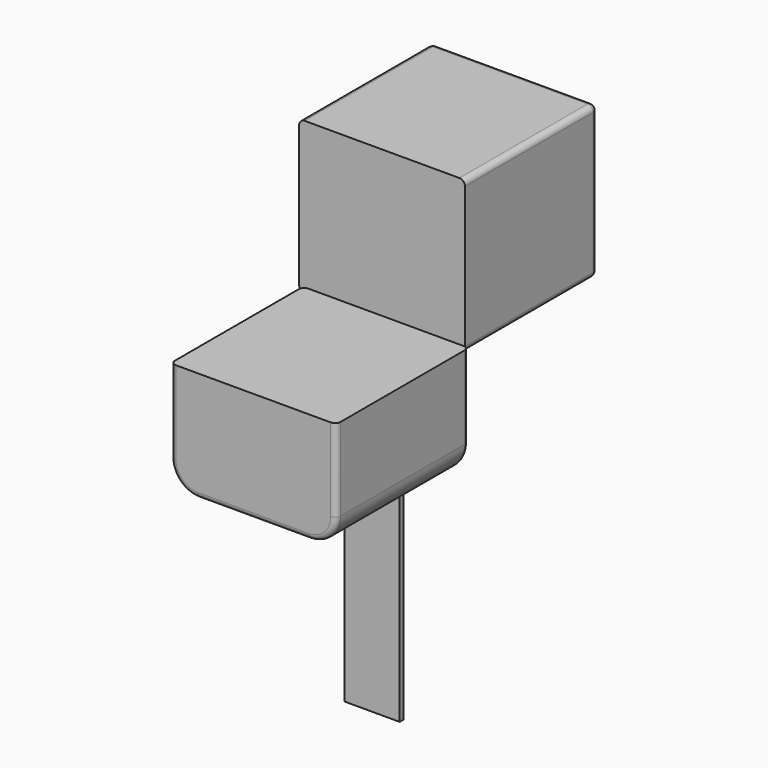
from build123d import *

# Parameters (mm, degrees)
F1_DEPTH = 152.4
F2_R     = 5.08
F3_W     = 152.4
F3_H     = 139.7
F4_DEPTH = 152.4
F5_R     = 5.08
F6_W     = 50.8
F6_H     = 4.4845114427
F7_DEPTH = 304.8


with BuildPart() as f1:
    # F0 (on Front) → F1 (new body)
    with BuildSketch(Plane.XZ):
        with BuildLine():
            Line((93.791274333, 18.625925827), (-58.608725667, 18.625925827))
            Line((-58.608725667, 18.625925827), (-58.608725667, -57.574074173))
            ThreePointArc((-58.608725667, -57.574074173), (-51.1692379091, -75.5345864151), (-33.208725667, -82.974074173))
            Line((-33.208725667, -82.974074173), (68.391274333, -82.974074173))
            ThreePointArc((68.391274333, -82.974074173), (86.3517865751, -75.5345864151), (93.791274333, -57.574074173))
            Line((93.791274333, -57.574074173), (93.791274333, 18.625925827))
        make_face()
    extrude(amount=F1_DEPTH)

    # F2
    f2_edges = [f1.edges().sort_by_distance(p)[0] for p in [
        (93.791274, -152.4, -19.474074),
        (93.791274, 0, -19.474074),
    ]]
    fillet(f2_edges, radius=F2_R)

    # F6 (on Top) → F7 (join)
    with BuildSketch(Plane.XY):
        with Locations((4.8482243842, 2.2422557214)):
            Rectangle(F6_W, F6_H)
    extrude(amount=-F7_DEPTH)


with BuildPart() as f4:
    # F3 (on Front) → F4 (new body)
    with BuildSketch(Plane.XZ):
        with Locations((14.006703535, 83.4991298616)):
            Rectangle(F3_W, F3_H)
    extrude(amount=-F4_DEPTH)

    # F5
    f5_edges = [f4.edges().sort_by_distance(p)[0] for p in [
        (90.206704, 76.2, 153.34913),
        (90.206704, 76.2, 13.64913),
        (90.206704, 152.4, 83.49913),
        (-62.193296, 76.2, 153.34913),
        (14.006704, 152.4, 153.34913),
        (-62.193296, 76.2, 13.64913),
        (-62.193296, 152.4, 83.49913),
        (14.006704, 152.4, 13.64913),
    ]]
    fillet(f5_edges, radius=F5_R)


solid = Compound([f1.part, f4.part])
